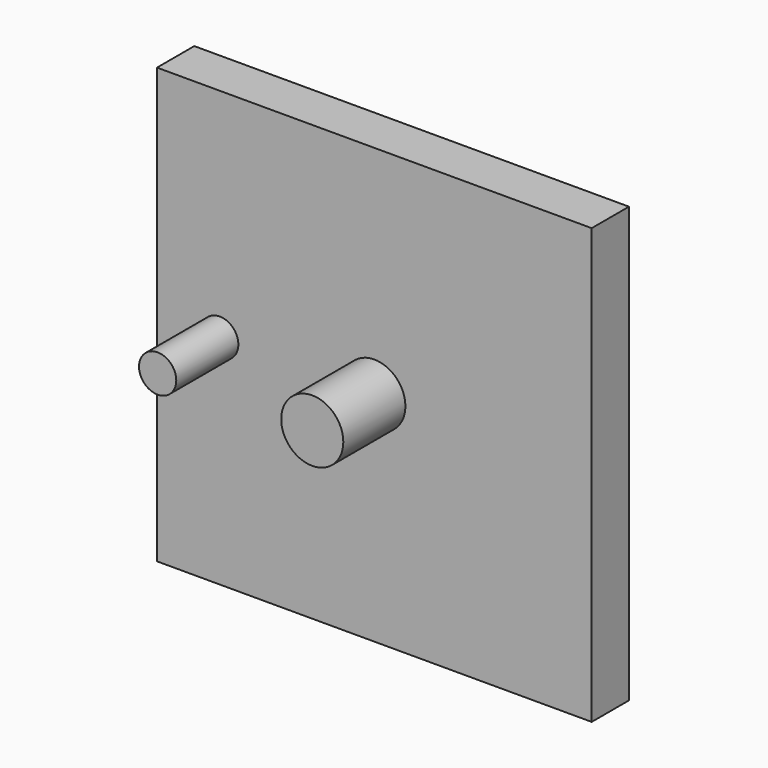
from build123d import *

# Parameters (mm, degrees)
F0_R     = 6
F1_DEPTH = 40
F0_R_2   = 10
F0_W     = 140
F0_H     = 140
F2_DEPTH = 15


with BuildPart() as f1:
    # F0 (on Front) → F1 (new body)
    with BuildSketch(Plane.XZ):
        with Locations((-49.8, 0)):
            Circle(F0_R)
    extrude(amount=F1_DEPTH)



with BuildPart() as f1b:
    # F0 (on Front) → F1, piece 2 (new body)
    with BuildSketch(Plane.XZ):
        Circle(F0_R_2)
    extrude(amount=F1_DEPTH)


with BuildPart() as f1_1:
    add(f1.part)

    add(f1b.part)  # F2 merges F1b
    # F0 (on Front) → F2 (join)
    with BuildSketch(Plane.XZ):
        Rectangle(F0_W, F0_H)
        with Locations((-49.8, 0)):
            Circle(F0_R, mode=Mode.SUBTRACT)
        Circle(F0_R_2, mode=Mode.SUBTRACT)
    extrude(amount=F2_DEPTH)


solid = f1_1.part
